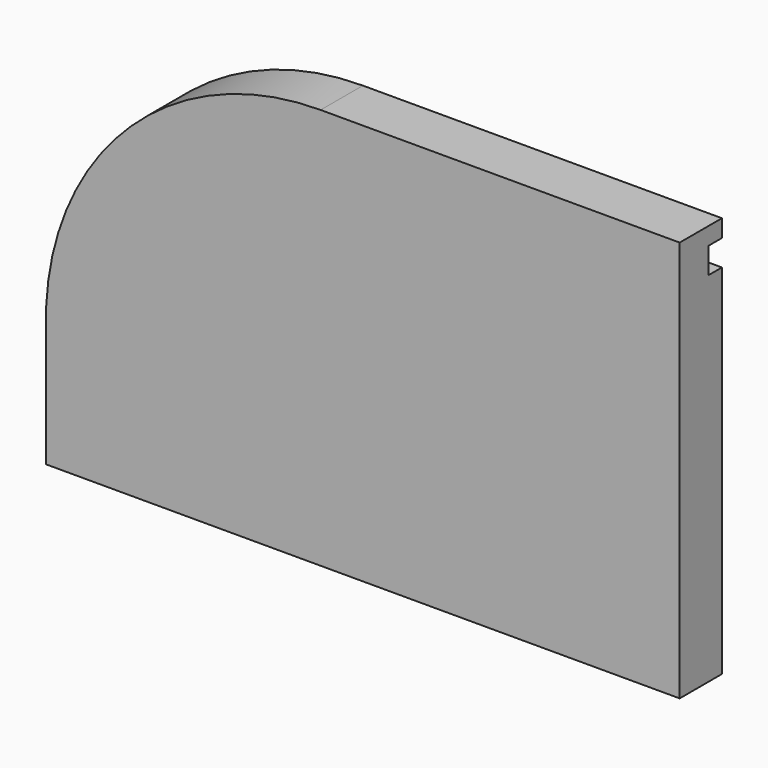
from build123d import *

# Parameters (mm, degrees)
F1_DEPTH = 25
F3_DEPTH = 8


with BuildPart() as f1:
    # F0 (on Front) → F1 (new body)
    with BuildSketch(Plane.XZ):
        with BuildLine():
            Line((-119.175632, 55), (-119.175632, 0))
            Line((-119.175632, 0), (180.824368, 0))
            Line((180.824368, 0), (180.824368, 190))
            Line((180.824368, 190), (10.824368, 190))
            ThreePointArc((10.824368, 190), (-82.883956, 150.145053), (-119.175632, 55))
        make_face()
    extrude(amount=F1_DEPTH)

    # F2 (on face) → F3 (cut)
    with BuildSketch(Plane(origin=(0, 0, 0), x_dir=(-1, 0, 0), z_dir=(0, 1, 0))):
        with BuildLine():
            Line((0, 181.738123), (-180.824368, 181.738123))
            Line((-180.824368, 181.738123), (-180.824368, 169.483781))
            Line((-180.824368, 169.483781), (0, 169.483781))
            ThreePointArc((0, 169.483781), (70.716626, 130.626464), (98.847926, 55))
            Line((98.847926, 55), (98.847926, 0))
            Line((98.847926, 0), (112.206072, 0))
            Line((112.206072, 0), (112.206072, 55))
            ThreePointArc((112.206072, 55), (80.123875, 139.635623), (0, 181.738123))
        make_face()
    extrude(amount=-F3_DEPTH, mode=Mode.SUBTRACT)


solid = f1.part
